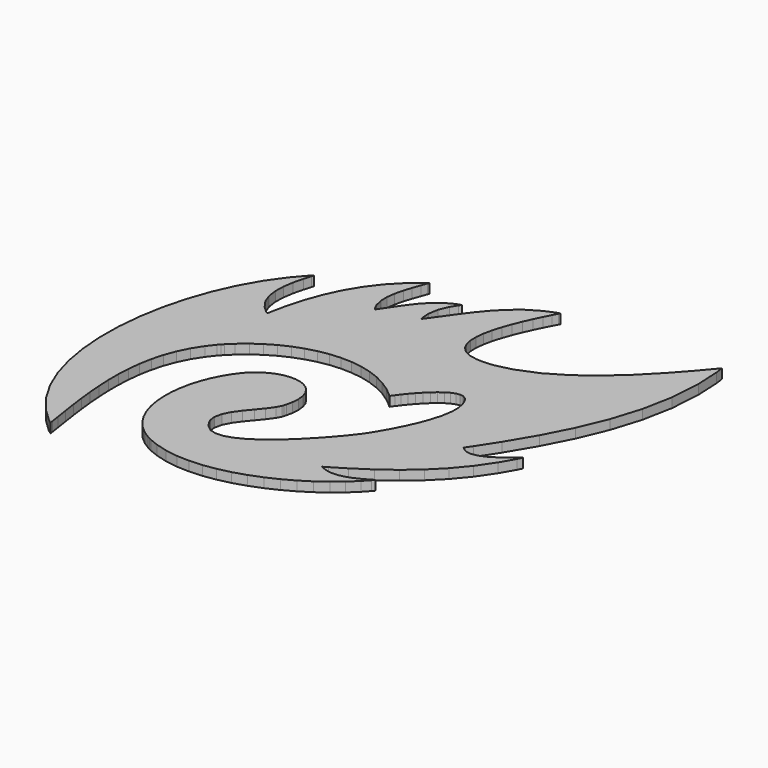
from build123d import *

# Parameters (mm, degrees)
F1_DEPTH = 0.9


with BuildPart() as f1:
    # F0 (on Top) → F1 (new body)
    with BuildSketch(Plane.XY):
        Polygon((19.438312, 18.096737), (19.333268, 18.839858), (19.005863, 18.442953), (18.006241, 17.26604), (16.527512, 15.618325), (14.913204, 13.976596), (13.179011, 12.421283), (11.341425, 11.032939), (9.416384, 9.892181), (7.420377, 9.079378), (5.886989, 8.71765), (5.369467, 8.674228), (5.119928, 8.653342), (4.365509, 8.667266), (3.568035, 8.822999), (2.96031, 9.123838), (2.525602, 9.55189), (2.24626, 10.090298), (2.105429, 10.720863), (2.086252, 11.426241), (2.171753, 12.188966), (2.344708, 12.991448), (2.588567, 13.815855), (2.885803, 14.644842), (3.219438, 15.460943), (3.572982, 16.246142), (3.928786, 16.983095), (4.270421, 17.654395), (4.502005, 18.095699), (4.580543, 18.24221), (4.250511, 18.139487), (3.292602, 17.727559), (2.167478, 17.058579), (1.174452, 16.259456), (0.283171, 15.353274), (-0.536594, 14.364584), (-1.315259, 13.31751), (-2.082625, 12.23538), (-2.66873, 11.41305), (-2.868862, 11.142258), (-2.932132, 11.375857), (-2.98215, 12.113481), (-2.824463, 13.044825), (-2.452047, 13.928471), (-2.067357, 14.559037), (-1.920846, 14.755871), (-2.121405, 14.697853), (-2.700548, 14.447336), (-3.392674, 14.018002), (-4.010964, 13.491137), (-4.569953, 12.888725), (-5.0832, 12.234342), (-5.564872, 11.54985), (-6.028773, 10.85803), (-6.371751, 10.349425), (-6.488704, 10.181722), (-6.598022, 10.332203), (-6.842553, 10.843434), (-7.009584, 11.556813), (-7.024058, 12.305918), (-6.919748, 13.074017), (-6.730242, 13.845047), (-6.488704, 14.602153), (-6.229577, 15.32909), (-6.045079, 15.838367), (-5.986023, 16.00894), (-6.333643, 15.759828), (-7.316409, 14.928459), (-8.467061, 13.735668), (-9.450193, 12.439787), (-10.278203, 11.0512), (-10.963061, 9.579066), (-11.517714, 8.033708), (-11.954133, 6.424713), (-12.214482, 5.179644), (-12.284042, 4.761791), (-12.49816, 4.902256), (-13.073333, 5.424786), (-13.607466, 6.183602), (-13.920214, 7.018513), (-14.046511, 7.909488), (-14.019944, 8.836923), (-13.874838, 9.780542), (-13.645514, 10.721229), (-13.440069, 11.410973), (-13.365561, 11.638649), (-13.705181, 11.308006), (-14.638234, 10.227465), (-15.783634, 8.611874), (-16.793577, 6.821007), (-17.659659, 4.885034), (-18.373691, 2.833697), (-18.928009, 0.696981), (-19.313683, -1.496165), (-19.523091, -3.715145), (-19.547935, -5.930398), (-19.379622, -8.112552), (-19.010516, -10.231495), (-18.432003, -12.257977), (-17.636134, -14.16146), (-16.614637, -15.912813), (-15.359552, -17.48205), (-14.261849, -18.5334), (-13.861891, -18.839858), (-13.902259, -18.569493), (-14.026235, -17.758705), (-14.195159, -16.647445), (-14.359931, -15.512305), (-14.510656, -14.358538), (-14.638234, -13.192924), (-14.733628, -12.020713), (-14.78731, -10.848381), (-14.789936, -9.681484), (-14.732285, -8.526068), (-14.605011, -7.388241), (-14.399016, -6.274049), (-14.104407, -5.189232), (-13.712448, -4.139593), (-13.213431, -3.131299), (-12.5985, -2.170397), (-12.055817, -1.478271), (-11.858006, -1.262932), (-11.679371, -1.068053), (-11.108839, -0.515048), (-10.300067, 0.162542), (-9.439566, 0.766175), (-8.534667, 1.291758), (-7.593308, 1.735688), (-6.623245, 2.093569), (-5.631807, 2.361612), (-4.627299, 2.536277), (-3.617051, 2.612739), (-2.608452, 2.587578), (-1.609746, 2.457006), (-0.628019, 2.216445), (0.328181, 1.862595), (1.251952, 1.391183), (2.135659, 0.79836), (2.773065, 0.270822), (2.970876, 0.079729), (3.029932, 0.167184), (3.213453, 0.425273), (3.501711, 0.808009), (3.828078, 1.21322), (4.185287, 1.626004), (4.565641, 2.032253), (4.961264, 2.416882), (5.364826, 2.765846), (5.768387, 3.063998), (6.165048, 3.297292), (6.54638, 3.450399), (6.905543, 3.508966), (7.234536, 3.458704), (7.526153, 3.284711), (7.772333, 2.972207), (7.965442, 2.506719), (8.07647, 2.033596), (8.098701, 1.873527), (8.127832, 1.661486), (8.115251, 1.011073), (7.963488, 0.059087), (7.676878, -0.945421), (7.289867, -1.967944), (6.83531, -2.972268), (6.347592, -3.922483), (5.860484, -4.783044), (5.524223, -5.336965), (5.407576, -5.518531), (5.342229, -5.619971), (5.131898, -5.915497), (4.72968, -6.442973), (4.21741, -7.072195), (3.611396, -7.773604), (2.928797, -8.518862), (2.186288, -9.278838), (1.400051, -10.024096), (0.587675, -10.726176), (-0.235022, -11.355703), (-1.050879, -11.884157), (-1.842979, -12.2821), (-2.594833, -12.52028), (-3.289951, -12.570664), (-3.911539, -12.403327), (-4.44268, -11.989811), (-4.786635, -11.484565), (-4.866456, -11.30135), (-4.937727, -11.138288), (-5.009303, -10.586933), (-4.862853, -9.877951), (-4.503324, -9.176787), (-4.006322, -8.487959), (-3.447638, -7.813728), (-2.903978, -7.157329), (-2.450398, -6.522794), (-2.210814, -6.072573), (-2.162751, -5.913176), (-2.107481, -5.728618), (-1.990528, -5.160712), (-1.942099, -4.492404), (-2.006346, -3.907948), (-2.171423, -3.40661), (-2.425237, -2.988452), (-2.756551, -2.652802), (-3.15315, -2.399355), (-3.603738, -2.228048), (-4.096464, -2.138273), (-4.619299, -2.129296), (-5.1607, -2.201543), (-5.709123, -2.354345), (-6.252478, -2.586906), (-6.779283, -2.899654), (-7.277628, -3.291673), (-7.629462, -3.63795), (-7.735483, -3.76278), (-7.873688, -3.925109), (-8.253065, -4.442386), (-8.710248, -5.18856), (-9.103611, -5.989333), (-9.42894, -6.833588), (-9.682082, -7.7096), (-9.860045, -8.606988), (-9.958065, -9.513475), (-9.972661, -10.417642), (-9.900169, -11.308984), (-9.73607, -12.175408), (-9.477309, -13.005739), (-9.119856, -13.788617), (-8.659253, -14.512683), (-8.092019, -15.166761), (-7.414429, -15.739308), (-6.828324, -16.11496), (-6.622207, -16.219027), (-6.365095, -16.348926), (-5.557971, -16.669247), (-4.444634, -16.976132), (-3.29331, -17.14811), (-2.113099, -17.194158), (-0.914995, -17.122216), (0.290744, -16.941322), (1.494162, -16.660025), (2.684633, -16.286328), (3.852263, -15.829389), (4.986792, -15.297882), (6.077838, -14.699868), (7.115263, -14.044141), (8.088379, -13.339068), (8.98766, -12.593566), (9.802418, -11.81594), (10.351086, -11.222201), (10.522392, -11.015045), (10.396462, -11.088942), (10.01678, -11.307335), (9.491319, -11.588631), (8.949552, -11.83646), (8.395814, -12.02963), (7.83426, -12.146582), (7.269347, -12.165514), (6.705105, -12.064746), (6.276626, -11.898387), (6.145444, -11.823207), (6.572152, -11.575745), (7.836581, -10.805631), (9.42701, -9.756297), (10.915694, -8.651326), (12.301961, -7.466779), (13.584894, -6.179205), (14.763822, -4.764417), (15.838379, -3.199211), (16.585103, -1.904674), (16.807465, -1.460072), (16.694238, -1.539893), (16.363473, -1.793035), (15.839967, -2.196535), (15.261495, -2.613716), (14.65145, -2.988086), (14.03487, -3.262847), (13.435513, -3.381449), (12.877806, -3.287032), (12.48426, -3.035539), (12.386117, -2.923228), (12.803604, -2.311228), (14.011968, -0.445854), (15.514943, 2.089599), (16.847589, 4.688872), (17.963796, 7.357461), (18.817029, 10.10123), (19.360445, 12.925918), (19.547935, 15.836962), align=None)
    extrude(amount=F1_DEPTH)


solid = f1.part
